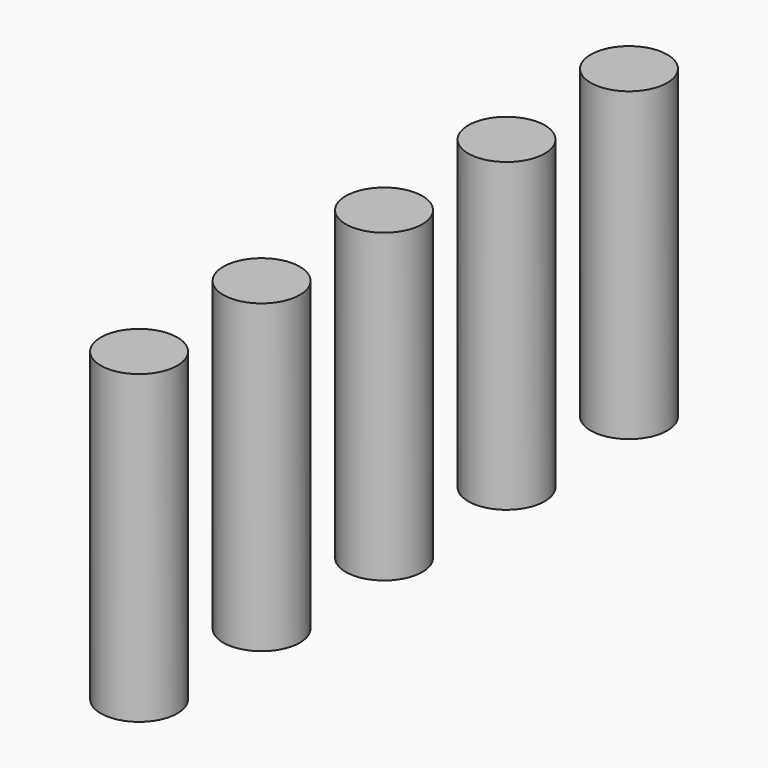
from build123d import *

# Parameters (mm, degrees)
CYLINDER050_R     = 2.5
CYLINDER050_DEPTH = 20
CYLINDER051_R     = 2.5
CYLINDER051_DEPTH = 20
CYLINDER052_R     = 2.5
CYLINDER052_DEPTH = 20
CYLINDER053_R     = 2.5
CYLINDER053_DEPTH = 20
CYLINDER049_R     = 2.5
CYLINDER049_DEPTH = 20


with BuildPart() as cylinder050:
    # cylinder050 → cylinder050 (new body)
    with BuildSketch(Plane(origin=(0, 10, -24.5), x_dir=(1, 0, 0), z_dir=(0, 0, 1))):
        Circle(CYLINDER050_R)
    extrude(amount=CYLINDER050_DEPTH)


with BuildPart() as cylinder051:
    # cylinder051 → cylinder051 (new body)
    with BuildSketch(Plane(origin=(0, 20, -24.5), x_dir=(1, 0, 0), z_dir=(0, 0, 1))):
        Circle(CYLINDER051_R)
    extrude(amount=CYLINDER051_DEPTH)


with BuildPart() as cylinder052:
    # cylinder052 → cylinder052 (new body)
    with BuildSketch(Plane(origin=(0, 30, -24.5), x_dir=(1, 0, 0), z_dir=(0, 0, 1))):
        Circle(CYLINDER052_R)
    extrude(amount=CYLINDER052_DEPTH)


with BuildPart() as cylinder053:
    # cylinder053 → cylinder053 (new body)
    with BuildSketch(Plane(origin=(0, 40, -24.5), x_dir=(1, 0, 0), z_dir=(0, 0, 1))):
        Circle(CYLINDER053_R)
    extrude(amount=CYLINDER053_DEPTH)


with BuildPart() as matrix_union010:
    # cylinder049 → cylinder049 (new body)
    with BuildSketch(Plane.XY.offset(-24.5)):
        Circle(CYLINDER049_R)
    extrude(amount=CYLINDER049_DEPTH)

    # Matrix_Union010: union cylinder050, cylinder051, cylinder052, cylinder053
    add(cylinder050.part)
    add(cylinder051.part)
    add(cylinder052.part)
    add(cylinder053.part)


solid = matrix_union010.part
